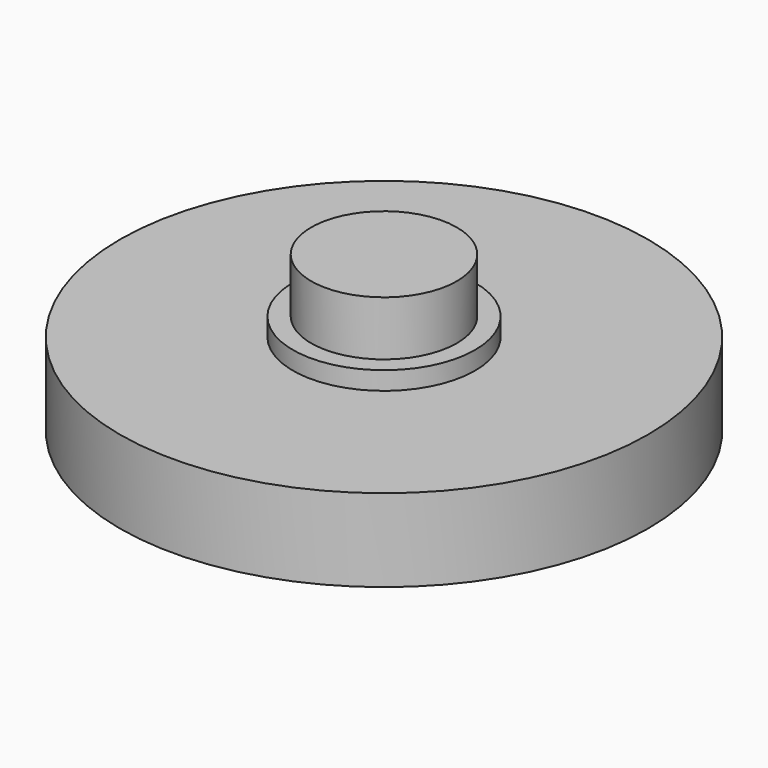
from build123d import *

# Parameters (mm, degrees)
F0_R      = 4
F1_DEPTH  = 4
F2_R      = 14.5
F3_DEPTH  = 2
F4_R      = 5
F5_DEPTH  = 1
F3_FACE_R = 14.5
F6_DEPTH  = 2.54


with BuildPart() as f1:
    # F0 (on Top) → F1 (new body)
    with BuildSketch(Plane.XY):
        Circle(F0_R)
    extrude(amount=F1_DEPTH)

    # F2 (on Top) → F3 (join)
    with BuildSketch(Plane.XY):
        Circle(F2_R)
    extrude(amount=-F3_DEPTH)

    # F4 (on Top) → F5 (join)
    with BuildSketch(Plane.XY):
        Circle(F4_R)
    extrude(amount=F5_DEPTH)

    # F3_face (on face) → F6 (join)
    with BuildSketch(Plane(origin=(0, 0, -2), x_dir=(1, 0, 0), z_dir=(0, 0, -1))):
        Circle(F3_FACE_R)
    extrude(amount=F6_DEPTH)


solid = f1.part
